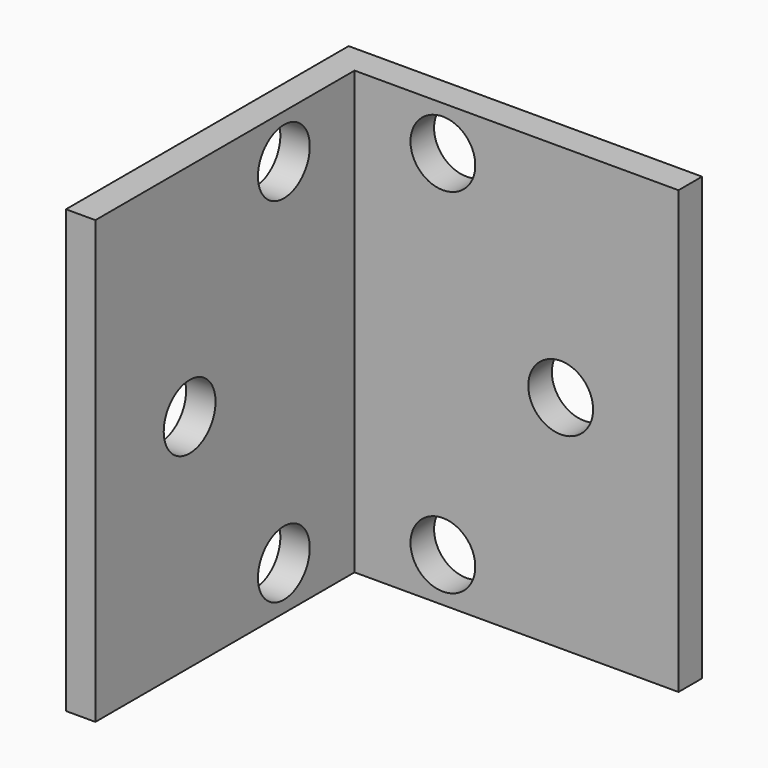
from build123d import *

# Parameters (mm, degrees)
F1_DEPTH = 47.625
F2_R     = 3.4925
F3_DEPTH = 25.4
F4_R     = 3.4925
F5_DEPTH = 25.4


with BuildPart() as f1:
    # F0 (on Top) → F1 (new body)
    with BuildSketch(Plane.XY):
        Polygon((38.1, 0), (0, 0), (0, -3.175), (0, -38.1), (3.175, -38.1), (3.175, -3.175), (38.1, -3.175), align=None)
    extrude(amount=F1_DEPTH)

    # F2 (on face) → F3 (cut)
    with BuildSketch(Plane(origin=(0, 0, 0), x_dir=(-1, 0, 0), z_dir=(0, 1, 0))):
        with Locations((-12.7, 42.8625)):
            Circle(F2_R)
        with Locations((-25.4, 23.8125)):
            Circle(F2_R)
        with Locations((-12.7, 4.7625)):
            Circle(F2_R)
    extrude(amount=-F3_DEPTH, mode=Mode.SUBTRACT)

    # F4 (on face) → F5 (cut)
    with BuildSketch(Plane(origin=(0, 0, 0), x_dir=(0, -1, 0), z_dir=(-1, 0, 0))):
        with Locations((12.7, 42.8625)):
            Circle(F4_R)
        with Locations((25.4, 23.8125)):
            Circle(F4_R)
        with Locations((12.7, 4.7625)):
            Circle(F4_R)
    extrude(amount=-F5_DEPTH, mode=Mode.SUBTRACT)


solid = f1.part
